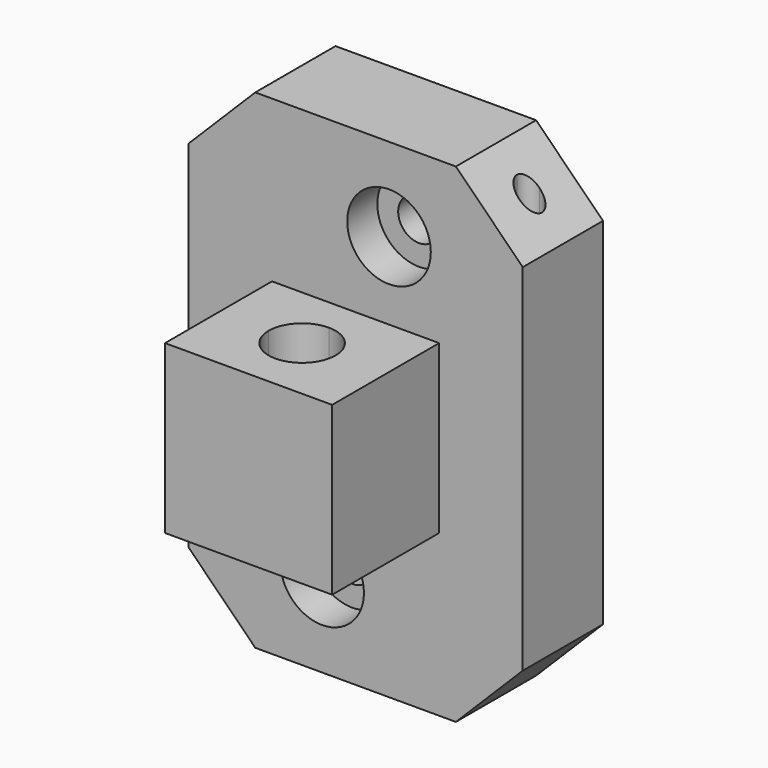
from build123d import *

# Parameters (mm, degrees)
F0_R      = 2.5
F1_DEPTH  = 12
F0_W      = 10
F0_H      = 10
F2_DEPTH  = 28
F4_DEPTH  = 25
F6_DEPTH  = 16
F8_DEPTH  = 25
F10_DEPTH = 16
F11_DEPTH = 25
F13_DEPTH = 25
F14_DEPTH = 25
F16_DEPTH = 25
F18_DEPTH = 25
F19_R     = 5
F19_R_2   = 2.5
F20_DEPTH = 4.5
F21_DEPTH = 4.5


with BuildPart() as f1:
    # F0 (on Front) → F1 (new body)
    with BuildSketch(Plane.XZ):
        Polygon((22.3333325194, 0), (10.3333325194, 0), (2.3333325194, -8), (2.3333325194, -29.25), (12.3333325194, -29.25), (12.3333325194, -19.25), (22.3333325194, -19.25), align=None)
        Polygon((34.3333325194, 0), (22.3333325194, 0), (22.3333325194, -19.25), (32.3333325194, -19.25), (32.3333325194, -29.25), (42.3333325194, -29.25), (42.3333325194, -8), align=None)
        with Locations((26.3333325194, -10)):
            Circle(F0_R, mode=Mode.SUBTRACT)
        Polygon((12.3333325194, -29.25), (2.3333325194, -29.25), (2.3333325194, -50.5), (10.3333325194, -58.5), (22.3333325194, -58.5), (22.3333325194, -39.25), (12.3333325194, -39.25), align=None)
        with Locations((18.3333325194, -48.5)):
            Circle(F0_R, mode=Mode.SUBTRACT)
        Polygon((32.3333325194, -39.25), (22.3333325194, -39.25), (22.3333325194, -58.5), (34.3333325194, -58.5), (42.3333325194, -50.5), (42.3333325194, -29.25), (32.3333325194, -29.25), align=None)
    extrude(amount=F1_DEPTH)

    # F0 (on Front) → F2 (join)
    with BuildSketch(Plane.XZ):
        with Locations((17.3333325194, -24.25)):
            Rectangle(F0_W, F0_H)
        with Locations((27.3333325194, -24.25)):
            Rectangle(F0_W, F0_H)
        with Locations((27.3333325194, -34.25)):
            Rectangle(F0_W, F0_H)
        with Locations((17.3333325194, -34.25)):
            Rectangle(F0_W, F0_H)
    extrude(amount=F2_DEPTH)

    # F3 (on face) → F4 (cut)
    with BuildSketch(Plane(origin=(0, 0, 0), x_dir=(-1, 0, 0), z_dir=(0, 1, 0))):
        Polygon((-34.3333325194, 0), (-42.3333325194, -8), (-34.3333325194, -8), align=None)
    extrude(amount=-F4_DEPTH, mode=Mode.SUBTRACT)

    # F5 (on face) → F6 (cut)
    with BuildSketch(Plane.XY.offset(-8)):
        with BuildLine():
            Line((36.8333325194, -6), (38.3333325194, -6))
            Line((38.3333325194, -6), (38.3333325194, -4.5))
            ThreePointArc((38.3333325194, -4.5), (37.2726723477, -4.9393398282), (36.8333325194, -6))
        make_face()
        with BuildLine():
            Line((38.3333325194, -7.5), (38.3333325194, -6))
            Line((38.3333325194, -6), (36.8333325194, -6))
            ThreePointArc((36.8333325194, -6), (37.2726723477, -7.0606601718), (38.3333325194, -7.5))
        make_face()
        with BuildLine():
            ThreePointArc((38.3333325194, -7.5), (39.3939926912, -7.0606601718), (39.8333325194, -6))
            Line((39.8333325194, -6), (38.3333325194, -6))
            Line((38.3333325194, -6), (38.3333325194, -7.5))
        make_face()
        with BuildLine():
            Line((38.3333325194, -6), (39.8333325194, -6))
            ThreePointArc((39.8333325194, -6), (39.3939926912, -4.9393398282), (38.3333325194, -4.5))
            Line((38.3333325194, -4.5), (38.3333325194, -6))
        make_face()
    extrude(amount=-F6_DEPTH, mode=Mode.SUBTRACT)

    # F7 (on face) → F8 (cut)
    with BuildSketch(Plane(origin=(0, 0, 0), x_dir=(-1, 0, 0), z_dir=(0, 1, 0))):
        Polygon((-10.3333325194, -8), (-6.3333325194, -8), (-6.3333325194, -4), (-10.3333325194, 0), align=None)
        Polygon((-6.3333325194, -4), (-6.3333325194, -8), (-2.3333325194, -8), align=None)
    extrude(amount=-F8_DEPTH, mode=Mode.SUBTRACT)

    # F9 (on face) → F10 (cut)
    with BuildSketch(Plane.XY.offset(-8)):
        with BuildLine():
            Line((6.3333325194, -7.5), (6.3333325194, -6))
            Line((6.3333325194, -6), (4.8333325194, -6))
            ThreePointArc((4.8333325194, -6), (5.2726723477, -7.0606601718), (6.3333325194, -7.5))
        make_face()
        with BuildLine():
            Line((4.8333325194, -6), (6.3333325194, -6))
            Line((6.3333325194, -6), (6.3333325194, -4.5))
            ThreePointArc((6.3333325194, -4.5), (5.2726723477, -4.9393398282), (4.8333325194, -6))
        make_face()
        with BuildLine():
            Line((6.3333325194, -6), (7.8333325194, -6))
            ThreePointArc((7.8333325194, -6), (7.3939926912, -4.9393398282), (6.3333325194, -4.5))
            Line((6.3333325194, -4.5), (6.3333325194, -6))
        make_face()
        with BuildLine():
            ThreePointArc((6.3333325194, -7.5), (7.3939926912, -7.0606601718), (7.8333325194, -6))
            Line((7.8333325194, -6), (6.3333325194, -6))
            Line((6.3333325194, -6), (6.3333325194, -7.5))
        make_face()
    extrude(amount=-F10_DEPTH, mode=Mode.SUBTRACT)

    # F11 (add): a face of the model
    f11_faces = [f1.faces().sort_by_distance(p)[0] for p in [
        (6.3333325194, -0.144222051, -8),
    ]]
    extrude(f11_faces, amount=F11_DEPTH)

    # F12 (on face) → F13 (cut)
    with BuildSketch(Plane.XZ.offset(12)):
        Polygon((2.3333325194, -8), (10.3333325194, 0), (10.3333325194, 17), (2.3333325194, 17), align=None)
    extrude(amount=-F13_DEPTH, mode=Mode.SUBTRACT)

    # F14 (add): a face of the model
    f14_faces = [f1.faces().sort_by_distance(p)[0] for p in [
        (38.3333325194, -0.144222051, -8),
    ]]
    extrude(f14_faces, amount=F14_DEPTH)

    # F15 (on face) → F16 (cut)
    with BuildSketch(Plane.XZ.offset(12)):
        Polygon((34.3333325194, 17), (34.3333325194, 0), (42.3333325194, -8), (42.3333325194, 17), align=None)
    extrude(amount=-F16_DEPTH, mode=Mode.SUBTRACT)

    # F17 (on face) → F18 (cut)
    with BuildSketch(Plane.XY.offset(-19.25)):
        with BuildLine():
            Line((22.3333325194, -24), (22.3333325194, -20))
            Line((22.3333325194, -20), (18.3333325194, -20))
            ThreePointArc((18.3333325194, -20), (19.5049053947, -22.8284271247), (22.3333325194, -24))
        make_face()
        with BuildLine():
            Line((18.3333325194, -20), (22.3333325194, -20))
            Line((22.3333325194, -20), (22.3333325194, -16))
            ThreePointArc((22.3333325194, -16), (19.5049053947, -17.1715728753), (18.3333325194, -20))
        make_face()
        with BuildLine():
            Line((22.3333325194, -20), (26.3333325194, -20))
            ThreePointArc((26.3333325194, -20), (25.1617596442, -17.1715728753), (22.3333325194, -16))
            Line((22.3333325194, -16), (22.3333325194, -20))
        make_face()
        with BuildLine():
            ThreePointArc((22.3333325194, -24), (25.1617596442, -22.8284271247), (26.3333325194, -20))
            Line((26.3333325194, -20), (22.3333325194, -20))
            Line((22.3333325194, -20), (22.3333325194, -24))
        make_face()
    extrude(amount=-F18_DEPTH, mode=Mode.SUBTRACT)

    # F19 (on face) → F20 (cut)
    with BuildSketch(Plane.XZ.offset(12)):
        with Locations((26.3333325194, -10)):
            Circle(F19_R)
        with Locations((26.3333325194, -10)):
            Circle(F19_R_2, mode=Mode.SUBTRACT)
    extrude(amount=-F20_DEPTH, mode=Mode.SUBTRACT)

    # F19 (on face) → F21 (cut)
    with BuildSketch(Plane.XZ.offset(12)):
        with Locations((18.3333325194, -48.5)):
            Circle(F19_R)
        with Locations((18.3333325194, -48.5)):
            Circle(F19_R_2, mode=Mode.SUBTRACT)
    extrude(amount=-F21_DEPTH, mode=Mode.SUBTRACT)


solid = f1.part
